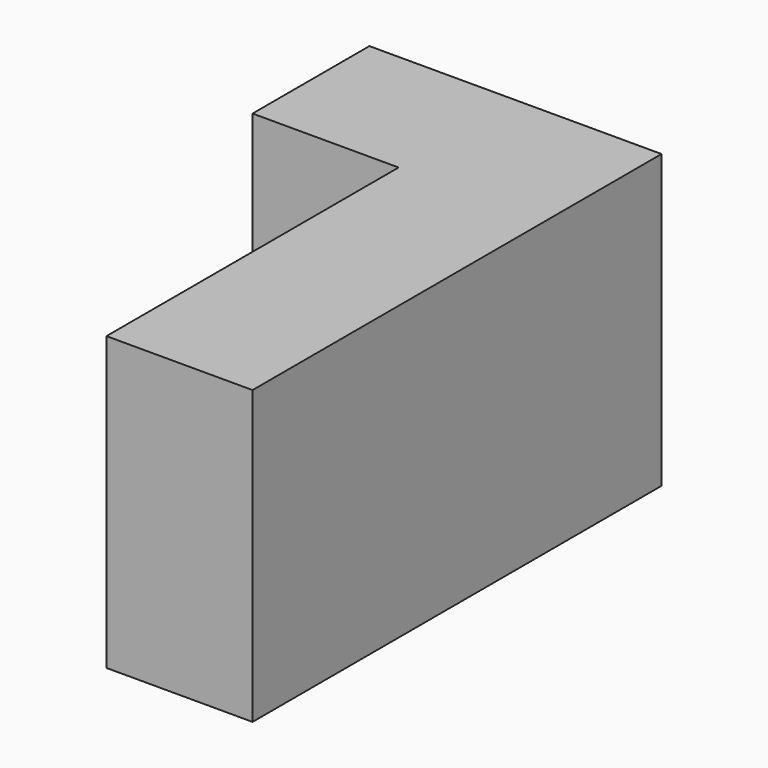
from build123d import *

# Parameters (mm, degrees)
F0_W     = 50.8
F0_H     = 50.8
F0_H_2   = 127
F1_DEPTH = 101.6


with BuildPart() as f1:
    # F0 (on Top) → F1 (new body)
    with BuildSketch(Plane.XY):
        with Locations((-7.268237, 76.392365)):
            Rectangle(F0_W, F0_H)
        with Locations((43.531763, 76.392365)):
            Rectangle(F0_W, F0_H)
        with Locations((43.531763, -12.507635)):
            Rectangle(F0_W, F0_H_2)
    extrude(amount=F1_DEPTH)


solid = f1.part
